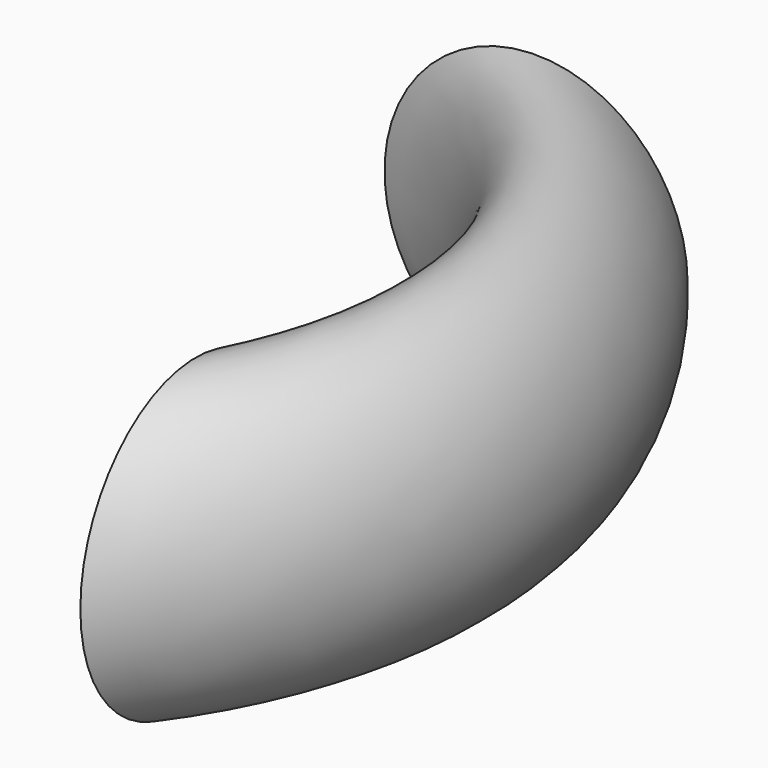
from build123d import *

# Parameters (mm, degrees)
F0_R = 11.0583897555


with BuildPart() as f2:
    # F2: sweep along a path in F1
    with BuildLine(Plane.XY) as f2_path:
        ThreePointArc((8.2207610831, -42.0199222863), (12.2830455922, -19.4110641643), (0, 0))
    # F0 (on Front) → F2 (sweep)
    with BuildSketch(Plane.XZ):
        Circle(F0_R)
    sweep(path=f2_path.line)


solid = f2.part
